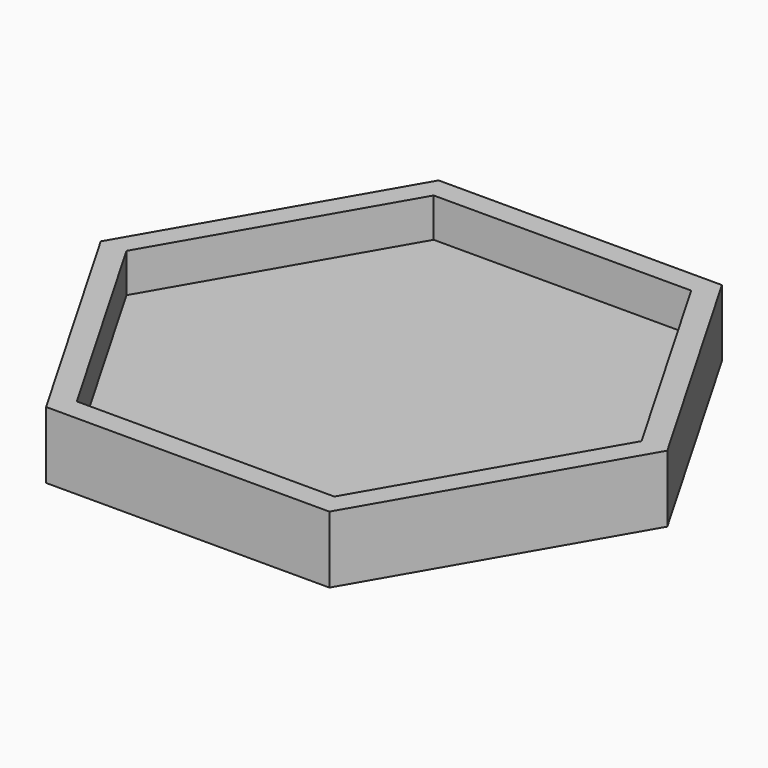
from build123d import *

# Parameters (mm, degrees)
F1_DEPTH = 5
F3_DEPTH = 7


with BuildPart() as f1:
    # F0 (on Top) → F1 (new body)
    with BuildSketch(Plane.XY):
        Polygon((-25.4034118443, 44), (-50.8068236887, 0), (-25.4034118443, -44), (25.4034118443, -44), (50.8068236887, 0), (25.4034118443, 44), align=None)
        Polygon((-23.0940107676, -40), (-46.1880215352, 0), (-23.0940107676, 40), (23.0940107676, 40), (46.1880215352, 0), (23.0940107676, -40), align=None, mode=Mode.SUBTRACT)
        Polygon((-23.0940107676, 40), (-46.1880215352, 0), (-23.0940107676, -40), (23.0940107676, -40), (46.1880215352, 0), (23.0940107676, 40), align=None)
    extrude(amount=F1_DEPTH)

    # F2 (on face) → F3 (join)
    with BuildSketch(Plane.XY.offset(5)):
        Polygon((-25.4034118443, 44), (-50.8068236887, 0), (-25.4034118443, -44), (25.4034118443, -44), (50.8068236887, 0), (25.4034118443, 44), align=None)
        Polygon((-23.0940107676, -40), (-46.1880215352, 0), (-23.0940107676, 40), (23.0940107676, 40), (46.1880215352, 0), (23.0940107676, -40), align=None, mode=Mode.SUBTRACT)
    extrude(amount=F3_DEPTH)


solid = f1.part
